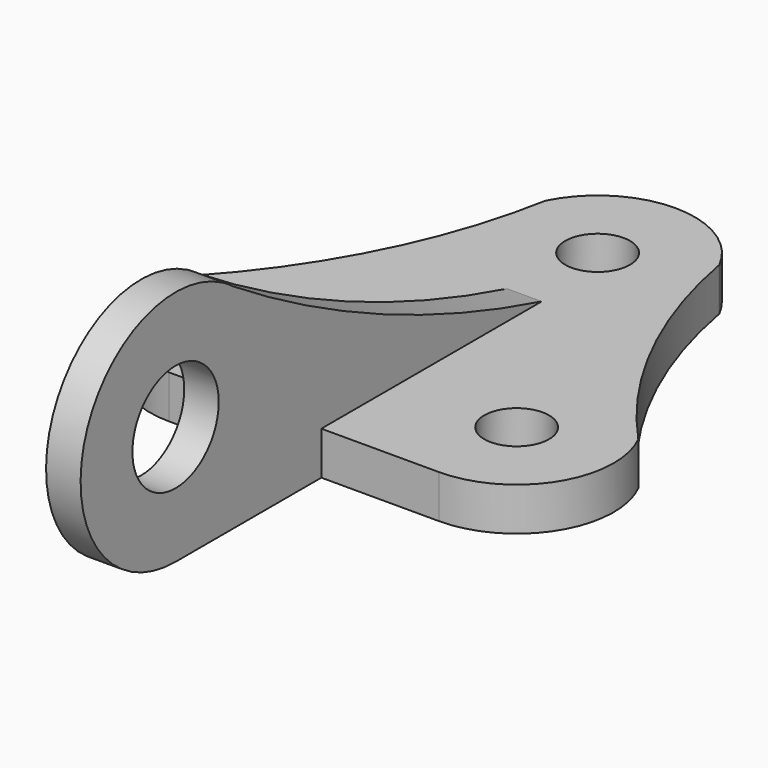
from build123d import *

# Parameters (mm, degrees)
F0_R     = 76.2
F1_DEPTH = 101.6
F2_R     = 127
F3_DEPTH = 40.64


with BuildPart() as f1:
    # F0 (on Top) → F1 (new body)
    with BuildSketch(Plane.XY):
        with BuildLine():
            ThreePointArc((521.9660558144, -476.9053573278), (317.9418396142, -182.042465428), (204.4660558144, 158.0946426722))
            ThreePointArc((204.4660558144, 158.0946426722), (-1.077e-07, 284.4616146445), (-204.4660559108, 158.0946424795))
            ThreePointArc((-204.4660559108, 158.0946424795), (-317.9418397105, -182.0424656206), (-521.9660559108, -476.9053575205))
            ThreePointArc((-521.9660559108, -476.9053575205), (-511.958774761, -699.3205176317), (-317.5, -807.7383853555))
            Line((-317.5, -807.7383853555), (317.5, -807.7383853555))
            ThreePointArc((317.5, -807.7383853555), (511.9587748176, -699.3205175401), (521.9660558144, -476.9053573278))
        make_face()
        with Locations((-317.5, -579.1383853555)):
            Circle(F0_R, mode=Mode.SUBTRACT)
        with Locations((317.5, -579.1383853555)):
            Circle(F0_R, mode=Mode.SUBTRACT)
        with Locations((0, 55.8616146445)):
            Circle(F0_R, mode=Mode.SUBTRACT)
    extrude(amount=F1_DEPTH)


with BuildPart() as f3:
    # F2 (on Right) → F3 (new body, symmetric)
    with BuildSketch(Plane.YZ):
        with BuildLine():
            Line((-1236.562177204, 0), (-159.4053573278, 0))
            Line((-159.4053573278, 0), (-159.4053573278, 101.6))
            ThreePointArc((-159.4053573278, 101.6), (-629.5830855996, 266.2367752365), (-1068.22073044, 502.392191122))
            ThreePointArc((-1068.22073044, 502.392191122), (-986.4632365567, 403.9587407092), (-957.162177204, 279.4))
            ThreePointArc((-957.162177204, 279.4), (-1038.9965425405, 81.8343653365), (-1236.562177204, 0))
        make_face()
        with BuildLine():
            ThreePointArc((-1100.1207183456, 523.2197865321), (-1506.9208356164, 349.9021689132), (-1236.562177204, 0))
            ThreePointArc((-1236.562177204, 0), (-1038.9965425405, 81.8343653365), (-957.162177204, 279.4))
            ThreePointArc((-957.162177204, 279.4), (-986.4632365567, 403.9587407092), (-1068.22073044, 502.392191122))
            ThreePointArc((-1068.22073044, 502.392191122), (-1084.2019637852, 512.7581419096), (-1100.1207183456, 523.2197865321))
        make_face()
        with Locations((-1236.562177204, 279.4)):
            Circle(F2_R, mode=Mode.SUBTRACT)
        with BuildLine():
            ThreePointArc((-1068.22073044, 502.392191122), (-1083.815321025, 513.3503321806), (-1100.1207183456, 523.2197865321))
            ThreePointArc((-1100.1207183456, 523.2197865321), (-1084.2019637852, 512.7581419096), (-1068.22073044, 502.392191122))
        make_face()
    extrude(amount=F3_DEPTH, both=True)


solid = Compound([f1.part, f3.part])
